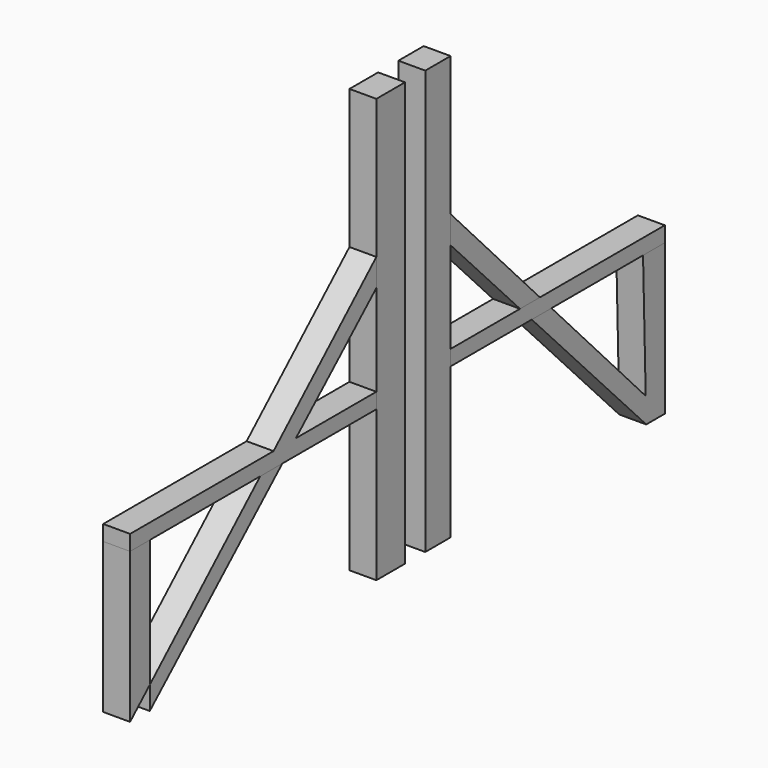
from build123d import *

# Parameters (mm, degrees)
F0_W     = 14.9319469929
F0_H     = 71.0706394166
F1_DEPTH = 12.7
F0_W_2   = 16.9228613377
F2_DEPTH = 12.7
F3_DEPTH = 12.7


with BuildPart() as f1:
    # F0 (on Right) → F1 (new body)
    with BuildSketch(Plane.YZ):
        with Locations((32.0592873663, -30.0753683969)):
            Rectangle(F0_W, F0_H)
        Polygon((39.5252608627, 55.8357574791), (39.5252608627, 68.7767677754), (39.5252608627, 134.4773062319), (24.5933138699, 134.4773062319), (24.5933138699, 5.4599513113), (39.5252608627, 5.4599513113), (39.5252608627, 12.7340704948), align=None)
    extrude(amount=-F1_DEPTH)


with BuildPart() as f1b:
    # F0 (on Right) → F1, piece 2 (new body)
    with BuildSketch(Plane.YZ):
        with Locations((4.1863319397, -30.0753683969)):
            Rectangle(F0_W_2, F0_H)
        Polygon((-4.2750987291, 5.4599513113), (12.6477626086, 5.4599513113), (12.6477626086, 134.4773062319), (-4.2750987291, 134.4773062319), (-4.2750987291, 68.7767677754), (-4.2750987291, 55.8700152487), (-4.2750987291, 12.7340704948), align=None)
    extrude(amount=-F1_DEPTH)


with BuildPart() as f1c:
    # F0 (on Right) → F1, piece 3 (new body)
    with BuildSketch(Plane.YZ):
        Polygon((-149.6134943395, 5.4599513113), (-149.6134943395, -65.4183215648), (-138.0058078351, -54.7006132747), (-138.0058078351, 5.4599513113), align=None)
    extrude(amount=-F1_DEPTH)


with BuildPart() as f1d:
    # F0 (on Right) → F1, piece 4 (new body)
    with BuildSketch(Plane.YZ):
        Polygon((165.9490221113, -65.6106881052), (165.9490221113, 5.4599513113), (153.1123422951, 5.4599513113), (154.6809782416, -53.6328468082), align=None)
        Polygon((154.9989336104, -65.6106881052), (165.9490221113, -65.6106881052), (154.6809782416, -53.6328468082), align=None)
        Polygon((154.6809782416, -53.6328468082), (99.0899727268, 5.4599513113), (87.4235696838, 5.4599513113), (154.9989336104, -65.6106881052), align=None)
    extrude(amount=-F1_DEPTH)


with BuildPart() as f1e:
    # F0 (on Right) → F1, piece 5 (new body)
    with BuildSketch(Plane.YZ):
        Polygon((-138.0058078351, -54.7006132747), (-138.0058078351, -65.6106881052), (-59.7684685426, 5.4599513113), (-72.8496238127, 5.4599513113), align=None)
    extrude(amount=-F1_DEPTH)


with BuildPart() as f2:
    # F0 (on Right) → F2 (new body)
    with BuildSketch(Plane.YZ):
        Polygon((-4.2750987291, 68.7767677754), (-64.9714755377, 12.7340704948), (-51.76083367, 12.7340704948), (-4.2750987291, 55.8700152487), align=None)
        Polygon((-149.6134943395, 12.7340704948), (-149.6134943395, 5.4599513113), (-138.0058078351, 5.4599513113), (-72.8496238127, 5.4599513113), (-64.9714755377, 12.7340704948), align=None)
        Polygon((-51.76083367, 12.7340704948), (-59.7684685426, 5.4599513113), (-4.2750987291, 5.4599513113), (-4.2750987291, 12.7340704948), align=None)
        Polygon((-72.8496238127, 5.4599513113), (-59.7684685426, 5.4599513113), (-51.76083367, 12.7340704948), (-64.9714755377, 12.7340704948), align=None)
    extrude(amount=-F2_DEPTH)


with BuildPart() as f2b:
    # F0 (on Right) → F2, piece 2 (new body)
    with BuildSketch(Plane.YZ):
        Polygon((80.5071938765, 12.7340704948), (92.2469121084, 12.7340704948), (39.5252608627, 68.7767677754), (39.5252608627, 55.8357574791), align=None)
    extrude(amount=-F2_DEPTH)


with BuildPart() as f3:
    # F0 (on Right) → F3 (new body)
    with BuildSketch(Plane.YZ):
        Polygon((39.5252608627, 5.4599513113), (87.4235696838, 5.4599513113), (80.5071938765, 12.7340704948), (39.5252608627, 12.7340704948), align=None)
        Polygon((153.1123422951, 5.4599513113), (165.9490221113, 5.4599513113), (165.9567409128, 12.7340704948), (92.2469121084, 12.7340704948), (99.0899727268, 5.4599513113), align=None)
        Polygon((87.4235696838, 5.4599513113), (99.0899727268, 5.4599513113), (92.2469121084, 12.7340704948), (80.5071938765, 12.7340704948), align=None)
    extrude(amount=-F3_DEPTH)


solid = Compound([f1.part, f1b.part, f1c.part, f1d.part, f1e.part, f2.part, f2b.part, f3.part])
